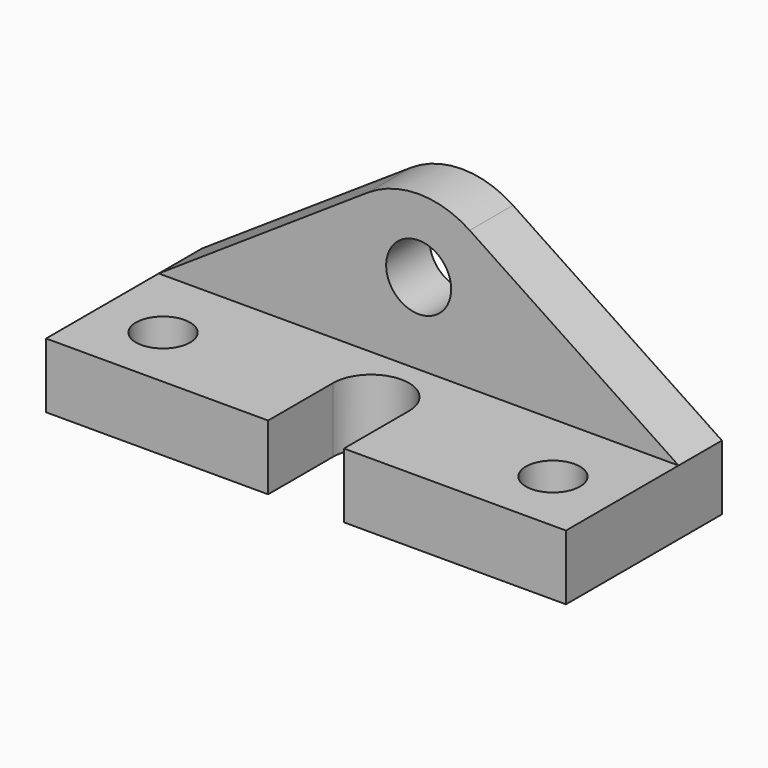
from build123d import *

# Parameters (mm, degrees)
F0_W      = 96
F0_H      = 12
F1_DEPTH  = 18
F3_DEPTH  = 10
F4_R      = 17
F5_R      = 6
F6_DEPTH  = 10.001
F7_W      = 14
F7_H      = 15
F8_DEPTH  = 25
F9_R      = 7
F10_DEPTH = 25
F11_R     = 5
F12_DEPTH = 12.001


with BuildPart() as f1:
    # F0 (on Front) → F1 (new body, symmetric)
    with BuildSketch(Plane.XZ):
        Rectangle(F0_W, F0_H)
    extrude(amount=F1_DEPTH, both=True)

    # F2 (on face) → F3 (join)
    with BuildSketch(Plane(origin=(0, 18, 0), x_dir=(-1, 0, 0), z_dir=(0, 1, 0))):
        Polygon((0, 37.958633), (-48, 6), (48, 6), align=None)
    extrude(amount=-F3_DEPTH)

    # F4
    f4_edges = [f1.edges().sort_by_distance(p)[0] for p in [
        (0, 13, 37.958633),
    ]]
    fillet(f4_edges, radius=F4_R)

    # F5 (on face) → F6 (cut, through all)
    with BuildSketch(Plane.XZ.offset(-8)):
        with Locations((0, 21)):
            Circle(F5_R)
    extrude(amount=-F6_DEPTH, mode=Mode.SUBTRACT)

    # F7 (on face) → F8 (cut)
    with BuildSketch(Plane.XY.offset(6)):
        with Locations((0, -10.5)):
            Rectangle(F7_W, F7_H)
        with Locations((0, -25.5)):
            Rectangle(F7_W, F7_H)
    extrude(amount=-F8_DEPTH, mode=Mode.SUBTRACT)

    # F9 (on face) → F10 (cut)
    with BuildSketch(Plane.XY.offset(6)):
        with Locations((0, -3)):
            Circle(F9_R)
    extrude(amount=-F10_DEPTH, mode=Mode.SUBTRACT)

    # F11 (on face) → F12 (cut, through all)
    with BuildSketch(Plane.XY.offset(6)):
        with Locations((36, -6)):
            Circle(F11_R)
        with Locations((-36, -6)):
            Circle(F11_R)
    extrude(amount=-F12_DEPTH, mode=Mode.SUBTRACT)


solid = f1.part
